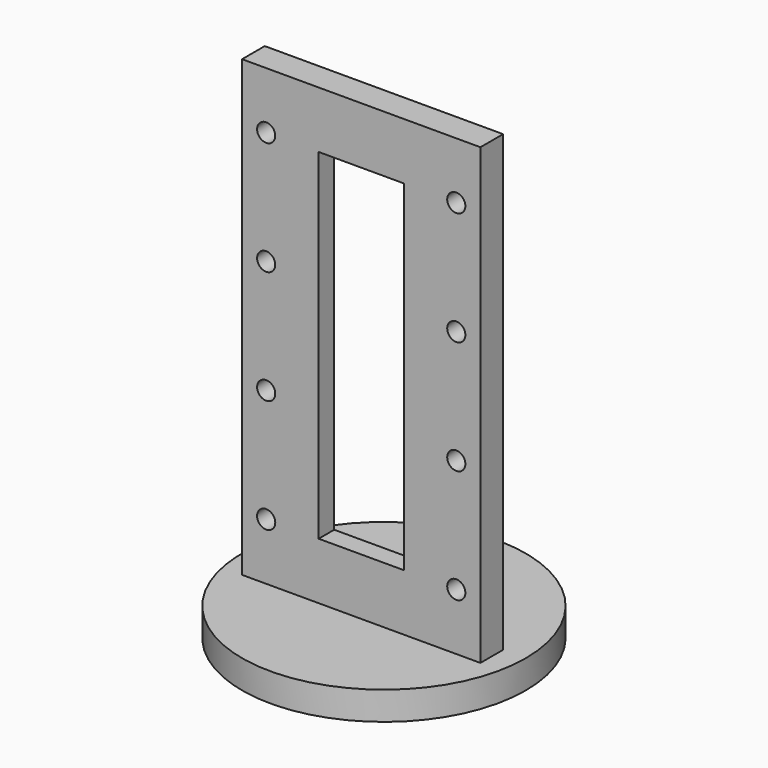
from build123d import *

# Parameters (mm, degrees)
F0_R     = 15.875
F1_DEPTH = 3.175
F2_W     = 26.67
F2_H     = 3.175
F3_DEPTH = 50.8
F4_W     = 9.525
F4_H     = 38.1
F5_DEPTH = 3.175
F6_W     = 15.875
F6_H     = 44.45
F7_DEPTH = 1
F8_R     = 1.016
F9_DEPTH = 3.175


with BuildPart() as f1:
    # F0 (on Top) → F1 (new body)
    with BuildSketch(Plane.XY):
        Circle(F0_R)
    extrude(amount=F1_DEPTH)

    # F2 (on face) → F3 (join)
    with BuildSketch(Plane.XY.offset(3.175)):
        with Locations((0, -1.5875)):
            Rectangle(F2_W, F2_H)
    extrude(amount=F3_DEPTH)

    # F4 (on face) → F5 (cut, through all)
    with BuildSketch(Plane(origin=(0, 0, 0), x_dir=(-1, 0, 0), z_dir=(0, 1, 0))):
        with Locations((0, 28.575)):
            Rectangle(F4_W, F4_H)
    extrude(amount=-F5_DEPTH, mode=Mode.SUBTRACT)

    # F6 (on face) → F7 (cut)
    with BuildSketch(Plane(origin=(0, 0, 0), x_dir=(-1, 0, 0), z_dir=(0, 1, 0))):
        with Locations((0, 28.575)):
            Rectangle(F6_W, F6_H)
    extrude(amount=-F7_DEPTH, mode=Mode.SUBTRACT)

    # F8 (on face) → F9 (cut, through all)
    with BuildSketch(Plane(origin=(0, 0, 0), x_dir=(-1, 0, 0), z_dir=(0, 1, 0))):
        with BuildLine():
            Line((10.63625, 9.525), (11.65225, 9.525))
            ThreePointArc((11.65225, 9.525), (10.63625, 10.541), (9.62025, 9.525))
            Line((9.62025, 9.525), (10.63625, 9.525))
        make_face()
        with BuildLine():
            ThreePointArc((9.62025, 9.525), (10.63625, 8.509), (11.65225, 9.525))
            Line((11.65225, 9.525), (10.63625, 9.525))
            Line((10.63625, 9.525), (9.62025, 9.525))
        make_face()
        with Locations((10.63625, 22.225)):
            Circle(F8_R)
        with Locations((10.63625, 34.925)):
            Circle(F8_R)
        with Locations((10.63625, 47.625)):
            Circle(F8_R)
        with Locations((-10.63625, 47.625)):
            Circle(F8_R)
        with Locations((-10.63625, 34.925)):
            Circle(F8_R)
        with Locations((-10.63625, 22.225)):
            Circle(F8_R)
        with Locations((-10.63625, 9.525)):
            Circle(F8_R)
    extrude(amount=-F9_DEPTH, mode=Mode.SUBTRACT)


solid = f1.part
